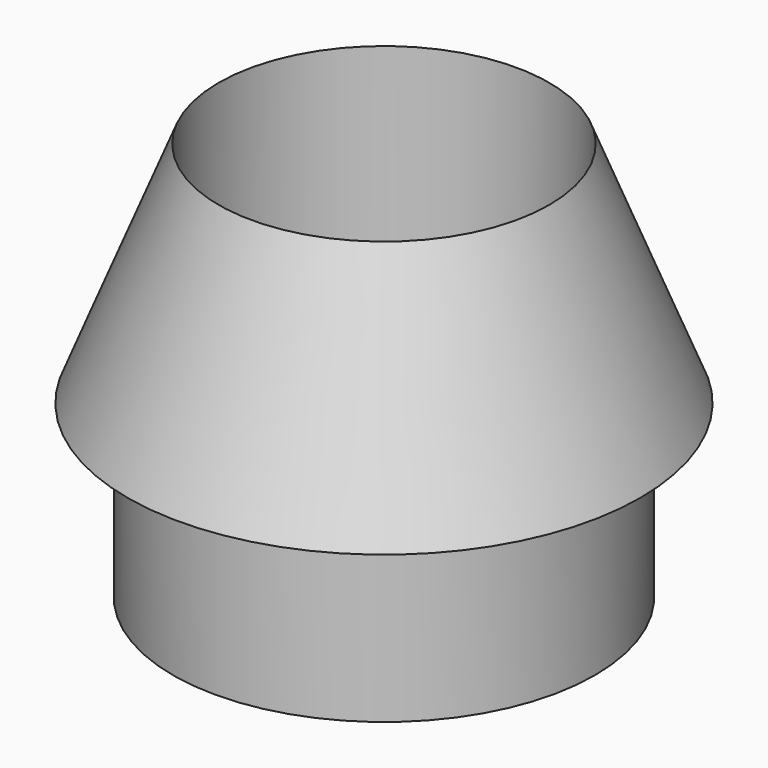
from build123d import *

# Parameters (mm, degrees)
SKETCH001_R   = 3.7
SKETCH001_R_2 = 2.9
PAD_DEPTH     = 3


with BuildPart() as part:
    # Sketch → Revolution (revolve)
    with BuildSketch(Plane.XZ):
        Polygon((2.9, 0), (4.5, 0), (2.9, 4), align=None)
    revolve(axis=Axis((0, 0, 0), (0, 0, 1)))

    # Sketch001 (on Face1 of Revolution) → Pad (new body)
    with BuildSketch(Plane(origin=(0, 0, 0), x_dir=(1, 0, 0), z_dir=(0, 0, -1))):
        Circle(SKETCH001_R)
        Circle(SKETCH001_R_2, mode=Mode.SUBTRACT)
    extrude(amount=PAD_DEPTH)


solid = part.part
